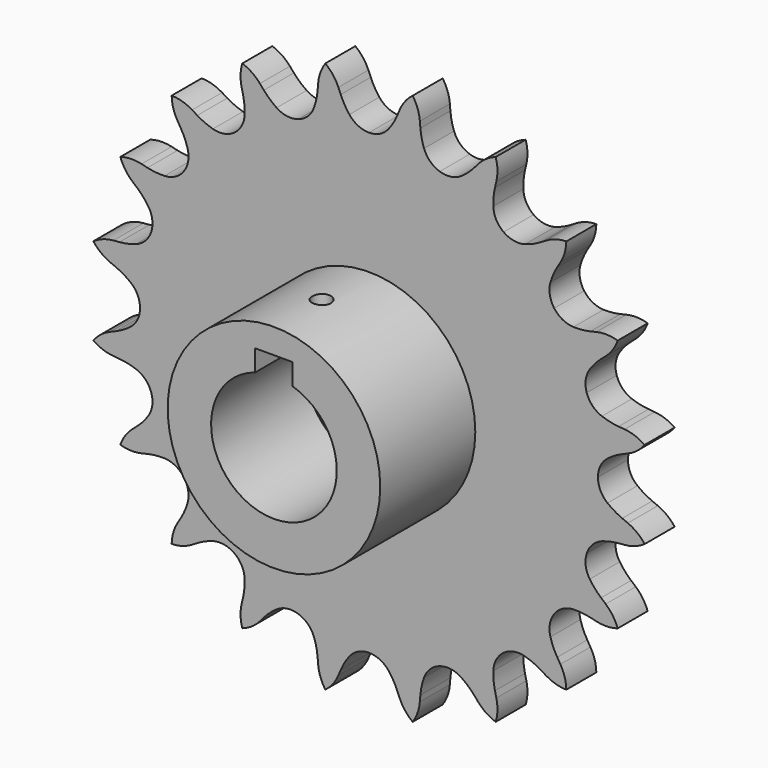
from build123d import *

# Parameters (mm, degrees)
F1_DEPTH = 6
F2_R     = 17
F3_DEPTH = 19
F5_DEPTH = 19
F6_R     = 1.5
F7_DEPTH = 25


with BuildPart() as f1:
    # F0 (on Front) → F1 (new body)
    with BuildSketch(Plane.XZ):
        with BuildLine():
            ThreePointArc((0, 36.6108), (-1.745287, 37.013731), (-3.137307, 38.140967))
            ThreePointArc((-3.137307, 38.140967), (-3.905976, 39.272029), (-4.518303, 40.494817))
            Line((-4.518303, 40.494817), (-4.895082, 41.39114))
            ThreePointArc((-4.895082, 41.39114), (-5.761094, 42.872572), (-6.981424, 44.078976))
            ThreePointArc((-6.981424, 44.078976), (-7.769227, 42.554515), (-8.135066, 40.877977))
            Line((-8.135066, 40.877977), (-8.216425, 39.909091))
            ThreePointArc((-8.216425, 39.909091), (-8.42092, 38.556932), (-8.802451, 37.243696))
            ThreePointArc((-8.802451, 37.243696), (-9.778005, 35.741474), (-11.313359, 34.81894))
            ThreePointArc((-11.313359, 34.81894), (-13.097739, 34.662827), (-14.769963, 35.304734))
            ThreePointArc((-14.769963, 35.304734), (-15.850528, 36.142906), (-16.810748, 37.116627))
            Line((-16.810748, 37.116627), (-17.446065, 37.85265))
            ThreePointArc((-17.446065, 37.85265), (-18.727479, 38.993963), (-20.260882, 39.764219))
            ThreePointArc((-20.260882, 39.764219), (-20.539043, 38.070925), (-20.368897, 36.363393))
            Line((-20.368897, 36.363393), (-20.146872, 35.416786))
            ThreePointArc((-20.146872, 35.416786), (-19.923518, 34.067614), (-19.880563, 32.700753))
            ThreePointArc((-19.880563, 32.700753), (-20.344158, 30.970592), (-21.519288, 29.618759))
            ThreePointArc((-21.519288, 29.618759), (-23.168092, 28.918884), (-24.956833, 29.012628))
            ThreePointArc((-24.956833, 29.012628), (-26.243521, 29.475864), (-27.45764, 30.105203))
            Line((-27.45764, 30.105203), (-28.289306, 30.608878))
            ThreePointArc((-28.289306, 30.608878), (-29.860688, 31.298353), (-31.557063, 31.557063))
            ThreePointArc((-31.557063, 31.557063), (-31.298353, 29.860688), (-30.608878, 28.289306))
            Line((-30.608878, 28.289306), (-30.105203, 27.45764))
            ThreePointArc((-30.105203, 27.45764), (-29.475864, 26.243521), (-29.012628, 24.956833))
            ThreePointArc((-29.012628, 24.956833), (-28.918884, 23.168092), (-29.618759, 21.519288))
            ThreePointArc((-29.618759, 21.519288), (-30.970592, 20.344158), (-32.700753, 19.880563))
            ThreePointArc((-32.700753, 19.880563), (-34.067614, 19.923518), (-35.416786, 20.146872))
            Line((-35.416786, 20.146872), (-36.363393, 20.368897))
            ThreePointArc((-36.363393, 20.368897), (-38.070925, 20.539043), (-39.764219, 20.260882))
            ThreePointArc((-39.764219, 20.260882), (-38.993963, 18.727479), (-37.85265, 17.446065))
            Line((-37.85265, 17.446065), (-37.116627, 16.810748))
            ThreePointArc((-37.116627, 16.810748), (-36.142906, 15.850528), (-35.304734, 14.769963))
            ThreePointArc((-35.304734, 14.769963), (-34.662827, 13.097739), (-34.81894, 11.313359))
            ThreePointArc((-34.81894, 11.313359), (-35.741474, 9.778005), (-37.243696, 8.802451))
            ThreePointArc((-37.243696, 8.802451), (-38.556932, 8.42092), (-39.909091, 8.216425))
            Line((-39.909091, 8.216425), (-40.877977, 8.135066))
            ThreePointArc((-40.877977, 8.135066), (-42.554515, 7.769227), (-44.078976, 6.981424))
            ThreePointArc((-44.078976, 6.981424), (-42.872572, 5.761094), (-41.39114, 4.895082))
            Line((-41.39114, 4.895082), (-40.494817, 4.518303))
            ThreePointArc((-40.494817, 4.518303), (-39.272029, 3.905976), (-38.140967, 3.137307))
            ThreePointArc((-38.140967, 3.137307), (-37.013731, 1.745287), (-36.6108, 0))
            ThreePointArc((-36.6108, 0), (-37.013731, -1.745287), (-38.140967, -3.137307))
            ThreePointArc((-38.140967, -3.137307), (-39.272029, -3.905976), (-40.494817, -4.518303))
            Line((-40.494817, -4.518303), (-41.39114, -4.895082))
            ThreePointArc((-41.39114, -4.895082), (-42.872572, -5.761094), (-44.078976, -6.981424))
            ThreePointArc((-44.078976, -6.981424), (-42.554515, -7.769227), (-40.877977, -8.135066))
            Line((-40.877977, -8.135066), (-39.909091, -8.216425))
            ThreePointArc((-39.909091, -8.216425), (-38.556932, -8.42092), (-37.243696, -8.802451))
            ThreePointArc((-37.243696, -8.802451), (-35.741474, -9.778005), (-34.81894, -11.313359))
            ThreePointArc((-34.81894, -11.313359), (-34.662827, -13.097739), (-35.304734, -14.769963))
            ThreePointArc((-35.304734, -14.769963), (-36.142906, -15.850528), (-37.116627, -16.810748))
            Line((-37.116627, -16.810748), (-37.85265, -17.446065))
            ThreePointArc((-37.85265, -17.446065), (-38.993963, -18.727479), (-39.764219, -20.260882))
            ThreePointArc((-39.764219, -20.260882), (-38.070925, -20.539043), (-36.363393, -20.368897))
            Line((-36.363393, -20.368897), (-35.416786, -20.146872))
            ThreePointArc((-35.416786, -20.146872), (-34.067614, -19.923518), (-32.700753, -19.880563))
            ThreePointArc((-32.700753, -19.880563), (-30.970592, -20.344158), (-29.618759, -21.519288))
            ThreePointArc((-29.618759, -21.519288), (-28.918884, -23.168092), (-29.012628, -24.956833))
            ThreePointArc((-29.012628, -24.956833), (-29.475864, -26.243521), (-30.105203, -27.45764))
            Line((-30.105203, -27.45764), (-30.608878, -28.289306))
            ThreePointArc((-30.608878, -28.289306), (-31.298353, -29.860688), (-31.557063, -31.557063))
            ThreePointArc((-31.557063, -31.557063), (-29.860688, -31.298353), (-28.289306, -30.608878))
            Line((-28.289306, -30.608878), (-27.45764, -30.105203))
            ThreePointArc((-27.45764, -30.105203), (-26.243521, -29.475864), (-24.956833, -29.012628))
            ThreePointArc((-24.956833, -29.012628), (-23.168092, -28.918884), (-21.519288, -29.618759))
            ThreePointArc((-21.519288, -29.618759), (-20.344158, -30.970592), (-19.880563, -32.700753))
            ThreePointArc((-19.880563, -32.700753), (-19.923518, -34.067614), (-20.146872, -35.416786))
            Line((-20.146872, -35.416786), (-20.368897, -36.363393))
            ThreePointArc((-20.368897, -36.363393), (-20.539043, -38.070925), (-20.260882, -39.764219))
            ThreePointArc((-20.260882, -39.764219), (-18.727479, -38.993963), (-17.446065, -37.85265))
            Line((-17.446065, -37.85265), (-16.810748, -37.116627))
            ThreePointArc((-16.810748, -37.116627), (-15.850528, -36.142906), (-14.769963, -35.304734))
            ThreePointArc((-14.769963, -35.304734), (-13.097739, -34.662827), (-11.313359, -34.81894))
            ThreePointArc((-11.313359, -34.81894), (-9.778005, -35.741474), (-8.802451, -37.243696))
            ThreePointArc((-8.802451, -37.243696), (-8.42092, -38.556932), (-8.216425, -39.909091))
            Line((-8.216425, -39.909091), (-8.135066, -40.877977))
            ThreePointArc((-8.135066, -40.877977), (-7.769227, -42.554515), (-6.981424, -44.078976))
            ThreePointArc((-6.981424, -44.078976), (-5.761094, -42.872572), (-4.895082, -41.39114))
            Line((-4.895082, -41.39114), (-4.518303, -40.494817))
            ThreePointArc((-4.518303, -40.494817), (-3.905976, -39.272029), (-3.137307, -38.140967))
            ThreePointArc((-3.137307, -38.140967), (-1.745287, -37.013731), (0, -36.6108))
            ThreePointArc((0, -36.6108), (1.745287, -37.013731), (3.137307, -38.140967))
            ThreePointArc((3.137307, -38.140967), (3.905976, -39.272029), (4.518303, -40.494817))
            Line((4.518303, -40.494817), (4.895082, -41.39114))
            ThreePointArc((4.895082, -41.39114), (5.761094, -42.872572), (6.981424, -44.078976))
            ThreePointArc((6.981424, -44.078976), (7.769227, -42.554515), (8.135066, -40.877977))
            Line((8.135066, -40.877977), (8.216425, -39.909091))
            ThreePointArc((8.216425, -39.909091), (8.42092, -38.556932), (8.802451, -37.243696))
            ThreePointArc((8.802451, -37.243696), (9.778005, -35.741474), (11.313359, -34.81894))
            ThreePointArc((11.313359, -34.81894), (13.097739, -34.662827), (14.769963, -35.304734))
            ThreePointArc((14.769963, -35.304734), (15.850528, -36.142906), (16.810748, -37.116627))
            Line((16.810748, -37.116627), (17.446065, -37.85265))
            ThreePointArc((17.446065, -37.85265), (18.727479, -38.993963), (20.260882, -39.764219))
            ThreePointArc((20.260882, -39.764219), (20.539043, -38.070925), (20.368897, -36.363393))
            Line((20.368897, -36.363393), (20.146872, -35.416786))
            ThreePointArc((20.146872, -35.416786), (19.923518, -34.067614), (19.880563, -32.700753))
            ThreePointArc((19.880563, -32.700753), (20.344158, -30.970592), (21.519288, -29.618759))
            ThreePointArc((21.519288, -29.618759), (23.168092, -28.918884), (24.956833, -29.012628))
            ThreePointArc((24.956833, -29.012628), (26.243521, -29.475864), (27.45764, -30.105203))
            Line((27.45764, -30.105203), (28.289306, -30.608878))
            ThreePointArc((28.289306, -30.608878), (29.860688, -31.298353), (31.557063, -31.557063))
            ThreePointArc((31.557063, -31.557063), (31.298353, -29.860688), (30.608878, -28.289306))
            Line((30.608878, -28.289306), (30.105203, -27.45764))
            ThreePointArc((30.105203, -27.45764), (29.475864, -26.243521), (29.012628, -24.956833))
            ThreePointArc((29.012628, -24.956833), (28.918884, -23.168092), (29.618759, -21.519288))
            ThreePointArc((29.618759, -21.519288), (30.970592, -20.344158), (32.700753, -19.880563))
            ThreePointArc((32.700753, -19.880563), (34.067614, -19.923518), (35.416786, -20.146872))
            Line((35.416786, -20.146872), (36.363393, -20.368897))
            ThreePointArc((36.363393, -20.368897), (38.070925, -20.539043), (39.764219, -20.260882))
            ThreePointArc((39.764219, -20.260882), (38.993963, -18.727479), (37.85265, -17.446065))
            Line((37.85265, -17.446065), (37.116627, -16.810748))
            ThreePointArc((37.116627, -16.810748), (36.142906, -15.850528), (35.304734, -14.769963))
            ThreePointArc((35.304734, -14.769963), (34.662827, -13.097739), (34.81894, -11.313359))
            ThreePointArc((34.81894, -11.313359), (35.741474, -9.778005), (37.243696, -8.802451))
            ThreePointArc((37.243696, -8.802451), (38.556932, -8.42092), (39.909091, -8.216425))
            Line((39.909091, -8.216425), (40.877977, -8.135066))
            ThreePointArc((40.877977, -8.135066), (42.554515, -7.769227), (44.078976, -6.981424))
            ThreePointArc((44.078976, -6.981424), (42.872572, -5.761094), (41.39114, -4.895082))
            Line((41.39114, -4.895082), (40.494817, -4.518303))
            ThreePointArc((40.494817, -4.518303), (39.272029, -3.905976), (38.140967, -3.137307))
            ThreePointArc((38.140967, -3.137307), (37.013731, -1.745287), (36.6108, 0))
            ThreePointArc((36.6108, 0), (37.013731, 1.745287), (38.140967, 3.137307))
            ThreePointArc((38.140967, 3.137307), (39.272029, 3.905976), (40.494817, 4.518303))
            Line((40.494817, 4.518303), (41.39114, 4.895082))
            ThreePointArc((41.39114, 4.895082), (42.872572, 5.761094), (44.078976, 6.981424))
            ThreePointArc((44.078976, 6.981424), (42.554515, 7.769227), (40.877977, 8.135066))
            Line((40.877977, 8.135066), (39.909091, 8.216425))
            ThreePointArc((39.909091, 8.216425), (38.556932, 8.42092), (37.243696, 8.802451))
            ThreePointArc((37.243696, 8.802451), (35.741474, 9.778005), (34.81894, 11.313359))
            ThreePointArc((34.81894, 11.313359), (34.662827, 13.097739), (35.304734, 14.769963))
            ThreePointArc((35.304734, 14.769963), (36.142906, 15.850528), (37.116627, 16.810748))
            Line((37.116627, 16.810748), (37.85265, 17.446065))
            ThreePointArc((37.85265, 17.446065), (38.993963, 18.727479), (39.764219, 20.260882))
            ThreePointArc((39.764219, 20.260882), (38.070925, 20.539043), (36.363393, 20.368897))
            Line((36.363393, 20.368897), (35.416786, 20.146872))
            ThreePointArc((35.416786, 20.146872), (34.067614, 19.923518), (32.700753, 19.880563))
            ThreePointArc((32.700753, 19.880563), (30.970592, 20.344158), (29.618759, 21.519288))
            ThreePointArc((29.618759, 21.519288), (28.918884, 23.168092), (29.012628, 24.956833))
            ThreePointArc((29.012628, 24.956833), (29.475864, 26.243521), (30.105203, 27.45764))
            Line((30.105203, 27.45764), (30.608878, 28.289306))
            ThreePointArc((30.608878, 28.289306), (31.298353, 29.860688), (31.557063, 31.557063))
            ThreePointArc((31.557063, 31.557063), (29.860688, 31.298353), (28.289306, 30.608878))
            Line((28.289306, 30.608878), (27.45764, 30.105203))
            ThreePointArc((27.45764, 30.105203), (26.243521, 29.475864), (24.956833, 29.012628))
            ThreePointArc((24.956833, 29.012628), (23.168092, 28.918884), (21.519288, 29.618759))
            ThreePointArc((21.519288, 29.618759), (20.344158, 30.970592), (19.880563, 32.700753))
            ThreePointArc((19.880563, 32.700753), (19.923518, 34.067614), (20.146872, 35.416786))
            Line((20.146872, 35.416786), (20.368897, 36.363393))
            ThreePointArc((20.368897, 36.363393), (20.539043, 38.070925), (20.260882, 39.764219))
            ThreePointArc((20.260882, 39.764219), (18.727479, 38.993963), (17.446065, 37.85265))
            Line((17.446065, 37.85265), (16.810748, 37.116627))
            ThreePointArc((16.810748, 37.116627), (15.850528, 36.142906), (14.769963, 35.304734))
            ThreePointArc((14.769963, 35.304734), (13.097739, 34.662827), (11.313359, 34.81894))
            ThreePointArc((11.313359, 34.81894), (9.778005, 35.741474), (8.802451, 37.243696))
            ThreePointArc((8.802451, 37.243696), (8.42092, 38.556932), (8.216425, 39.909091))
            Line((8.216425, 39.909091), (8.135066, 40.877977))
            ThreePointArc((8.135066, 40.877977), (7.769227, 42.554515), (6.981424, 44.078976))
            ThreePointArc((6.981424, 44.078976), (5.761094, 42.872572), (4.895082, 41.39114))
            Line((4.895082, 41.39114), (4.518303, 40.494817))
            ThreePointArc((4.518303, 40.494817), (3.905976, 39.272029), (3.137307, 38.140967))
            ThreePointArc((3.137307, 38.140967), (1.745287, 37.013731), (0, 36.6108))
        make_face()
    extrude(amount=-F1_DEPTH)

    # F2 (on face) → F3 (join)
    with BuildSketch(Plane.XZ):
        Circle(F2_R)
    extrude(amount=F3_DEPTH)

    # F4 (on face) → F5 (cut)
    with BuildSketch(Plane.XZ.offset(19)):
        with BuildLine():
            Line((-3, 13), (-3, 9.591793))
            ThreePointArc((-3, 9.591793), (0, -10.05), (3, 9.591793))
            Line((3, 9.591793), (3, 13))
            Line((3, 13), (-3, 13))
        make_face()
    extrude(amount=-F5_DEPTH, mode=Mode.SUBTRACT)

    # F6 (on Top) → F7 (cut)
    with BuildSketch(Plane.XY):
        with Locations((0, -9.5)):
            Circle(F6_R)
    extrude(amount=F7_DEPTH, mode=Mode.SUBTRACT)


solid = f1.part
